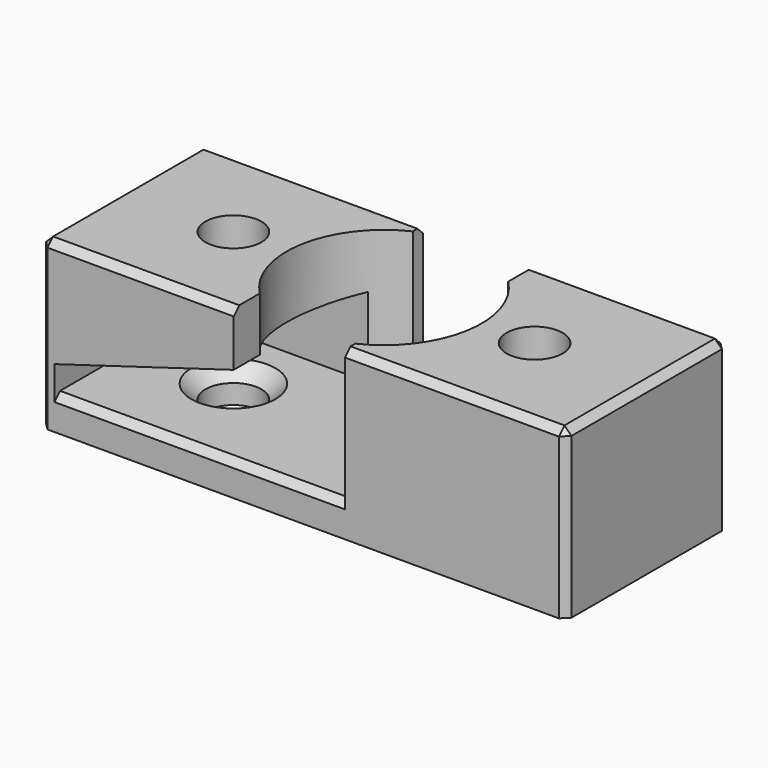
from build123d import *

# Parameters (mm, degrees)
SKETCH_W             = 75
SKETCH_H             = 28.845
PAD_DEPTH            = 23.845
POCKET_DEPTH         = 24.076
POCKET001_DEPTH      = 24.076
SKETCH003_R          = 13.9225
POCKET002_DEPTH      = 19.076
SKETCH004_W          = 11.9225
SKETCH004_H          = 19.076
POCKET003_DEPTH      = 14.4235
POCKET003_DEPTH_BACK = -14.4235
SKETCH005_R          = 4
POCKET004_DEPTH      = 23.846
CHAMFER_SIZE         = 2
CHAMFER001_SIZE      = 1
SKETCH006_W          = 4.96125
SKETCH006_H          = 9.73025
POCKET005_DEPTH      = 29.845
SKETCH007_W          = 4.96125
SKETCH007_H          = 9.73025
POCKET006_DEPTH      = 29.845


with BuildPart() as part:
    # Sketch → Pad (new body)
    with BuildSketch(Plane.XY):
        Rectangle(SKETCH_W, SKETCH_H)
    extrude(amount=PAD_DEPTH)

    # Sketch001 → Pocket (cut)
    with BuildSketch(Plane.XZ.offset(-9.6535)):
        Polygon((0, 4.769), (-35.5, 4.769), (-35.5, 8.538), (0, 19.076), align=None)
    extrude(amount=POCKET_DEPTH, mode=Mode.SUBTRACT)

    # Sketch002 → Pocket001 (cut)
    with BuildSketch(Plane.XZ.offset(9.6535)):
        Polygon((0, 4.769), (0, 19.076), (35.5, 8.538), (35.5, 4.769), align=None)
    extrude(amount=-POCKET001_DEPTH, mode=Mode.SUBTRACT)

    # Sketch003 → Pocket002 (cut)
    with BuildSketch(Plane.XY.offset(23.845)):
        Circle(SKETCH003_R)
    extrude(amount=-POCKET002_DEPTH, mode=Mode.SUBTRACT)

    # Sketch004 → Pocket003 (cut, two sides)
    with BuildSketch(Plane.XZ) as pocket003_sk:
        with Locations((0, 14.307)):
            Rectangle(SKETCH004_W, SKETCH004_H)
    extrude(amount=-POCKET003_DEPTH, mode=Mode.SUBTRACT)
    extrude(pocket003_sk.sketch, amount=-POCKET003_DEPTH_BACK, mode=Mode.SUBTRACT)

    # Sketch005 → Pocket004 (cut, through all)
    with BuildSketch(Plane.XY.offset(23.845)):
        with Locations((-21.5, 0)):
            Circle(SKETCH005_R)
        with Locations((21.5, 0)):
            Circle(SKETCH005_R)
    extrude(amount=-POCKET004_DEPTH, mode=Mode.SUBTRACT)

    # Chamfer
    chamfer_edges = [part.edges().sort_by_distance(p)[0] for p in [
        (-25.5, 0, 4.769),
        (17.5, 0, 4.769),
    ]]
    chamfer(chamfer_edges, length=CHAMFER_SIZE)

    # Chamfer001
    chamfer001_edges = [part.edges().sort_by_distance(p)[0] for p in [
        (21.730625, 14.4225, 23.845),
        (-21.730625, 14.4225, 23.845),
        (21.730625, -14.4225, 23.845),
        (-21.730625, -14.4225, 23.845),
        (-37.5, 0, 23.845),
        (37.5, 0, 23.845),
        (20.730625, 14.4225, 4.769),
        (-20.730625, -14.4225, 4.769),
        (-37.5, -14.4225, 11.9225),
        (37.5, 14.4225, 11.9225),
        (37.5, -14.4225, 11.9225),
        (-37.5, 14.4225, 11.9225),
    ]]
    chamfer(chamfer001_edges, length=CHAMFER001_SIZE)

    # Sketch006 → Pocket005 (cut)
    with BuildSketch(Plane.XZ):
        with Locations((-7.441875, 19.979875)):
            Rectangle(SKETCH006_W, SKETCH006_H)
    extrude(amount=POCKET005_DEPTH, mode=Mode.SUBTRACT)

    # Sketch007 → Pocket006 (cut)
    with BuildSketch(Plane.XZ):
        with Locations((7.441875, 19.979875)):
            Rectangle(SKETCH007_W, SKETCH007_H)
    extrude(amount=-POCKET006_DEPTH, mode=Mode.SUBTRACT)


solid = part.part
